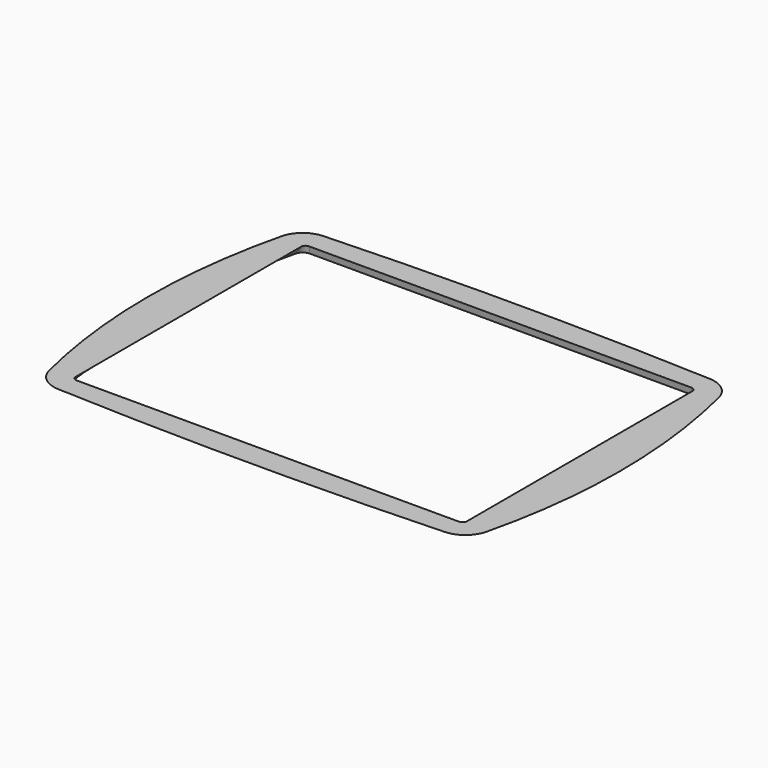
from build123d import *


with BuildPart() as case_chamfer_front_inner:
    # Sketch037 → Loft section 0
    with BuildSketch(Plane.XY.offset(-5)):
        with BuildLine():
            Line((-130.31395, 99.948372), (129.68605, 99.948372))
            ThreePointArc((135.138459, 94.717101), (133.314437, 98.273056), (129.68605, 99.948372))
            ThreePointArc((135.138459, -94.717101), (146.489063, 0), (135.138459, 94.717101))
            ThreePointArc((129.68605, -99.948372), (133.314437, -98.273056), (135.138459, -94.717101))
            Line((-130.31395, -99.948372), (129.68605, -99.948372))
            ThreePointArc((-136.26956, -95.280427), (-134.098255, -98.643375), (-130.31395, -99.948372))
            ThreePointArc((-136.26956, 95.280427), (-147.757578, 0), (-136.26956, -95.280427))
            ThreePointArc((-130.31395, 99.948372), (-134.098255, 98.643375), (-136.26956, 95.280427))
        make_face()
    # Sketch038 → Loft section 1
    with BuildSketch(Plane.XY):
        with BuildLine():
            Line((-130, 98.75), (130, 98.75))
            ThreePointArc((133, 95.75), (132.12132, 97.87132), (130, 98.75))
            Line((133, 95.75), (133, -95.75))
            ThreePointArc((130, -98.75), (132.12132, -97.87132), (133, -95.75))
            Line((130, -98.75), (-130, -98.75))
            ThreePointArc((-133, -95.75), (-132.12132, -97.87132), (-130, -98.75))
            Line((-133, -95.75), (-133, 95.75))
            ThreePointArc((-130, 98.75), (-132.12132, 97.87132), (-133, 95.75))
        make_face()
    loft()


with BuildPart() as case_chamfer:
    # Sketch035 → Loft001 section 0
    with BuildSketch(Plane.XY):
        with BuildLine():
            ThreePointArc((131.5, 112.710757), (0, 115.580098), (-131.5, 112.710757))
            ThreePointArc((-131.5, 112.710757), (-142.354422, 108.63407), (-148.591078, 98.859511))
            ThreePointArc((-148.591078, 98.859511), (-160.524221, 0.112742), (-148.644672, -98.640489))
            ThreePointArc((-148.644672, -98.640489), (-142.441793, -108.562815), (-131.5, -112.710757))
            ThreePointArc((-131.5, -112.710757), (0, -115.580098), (131.5, -112.710757))
            ThreePointArc((131.5, -112.710757), (142.354422, -108.63407), (148.591078, -98.859511))
            ThreePointArc((148.591078, -98.859511), (160.524221, -0.112742), (148.644672, 98.640489))
            ThreePointArc((148.644672, 98.640489), (142.441793, 108.562815), (131.5, 112.710757))
        make_face()
    # Sketch036 → Loft001 section 1
    with BuildSketch(Plane.XY.offset(-5)):
        with BuildLine():
            ThreePointArc((131.730833, 103.087267), (0, 105.961644), (-131.730833, 103.087267))
            ThreePointArc((-131.730833, 103.087267), (-136.764296, 100.797276), (-139.416641, 95.944969))
            ThreePointArc((-139.416641, 95.944969), (-150.91996, -0.537641), (-139.161062, -96.989436))
            ThreePointArc((-139.161062, -96.989436), (-135.897713, -101.504856), (-130.569459, -103.132176))
            ThreePointArc((-130.569459, -103.132176), (0, -105.956071), (130.569459, -103.132176))
            ThreePointArc((130.569459, -103.132176), (136.091991, -101.361862), (139.29156, -96.525011))
            ThreePointArc((139.29156, -96.525011), (150.936804, -0.055422), (139.317907, 96.417344))
            ThreePointArc((139.317907, 96.417344), (136.585275, 100.959091), (131.730833, 103.087267))
        make_face()
    loft()

    # Cut001: cut CASE_chamfer_front_inner
    add(case_chamfer_front_inner.part, mode=Mode.SUBTRACT)


solid = case_chamfer.part
